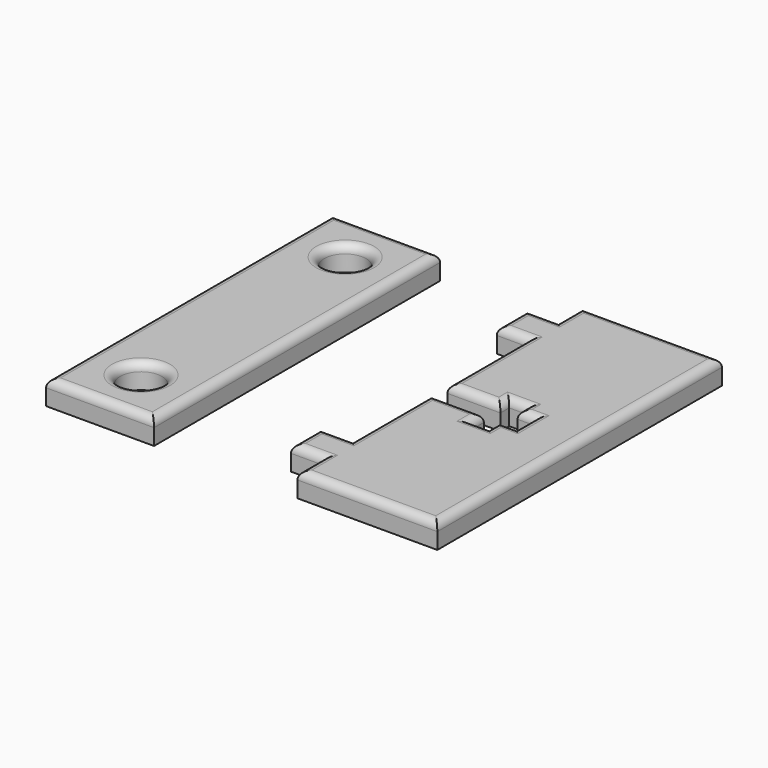
from build123d import *

# Parameters (mm, degrees)
F0_W     = 33.961078
F0_H     = 112.53205
F0_R     = 6.569287
F0_R_2   = 6.562981
F1_DEPTH = 7.62
F2_R     = 2.54
F3_R     = 2.54


with BuildPart() as f1:
    # F0 (on Top) → F1 (new body)
    with BuildSketch(Plane.XY):
        with Locations((-42.739156, 0)):
            Rectangle(F0_W, F0_H)
        with Locations((-42.739156, -40.148903)):
            Circle(F0_R, mode=Mode.SUBTRACT)
        with Locations((-42.739156, 40.148903)):
            Circle(F0_R_2, mode=Mode.SUBTRACT)
        Polygon((63.173369, 55.97822), (19.139083, 55.97822), (19.139083, 46.48063), (9.353687, 46.48063), (9.353687, 34.680594), (19.139081, 34.680594), (19.139082, 3.02196), (35.831816, 3.021961), (35.831816, 6.47563), (41.240517, 6.47563), (41.240517, 3.021961), (46.564922, 3.021961), (46.564922, -2.327136), (46.564922, -4.197873), (41.240517, -4.197873), (41.240517, -8.371057), (35.831816, -8.371057), (35.831816, -3.478359), (19.139082, -3.478359), (19.139083, -34.392789), (9.065881, -34.392789), (9.065881, -45.90502), (19.139083, -45.90502), (19.139083, -55.97822), (63.173369, -55.97822), align=None)
    extrude(amount=-F1_DEPTH)

    # F2
    f2_edges = [f1.edges().sort_by_distance(p)[0] for p in [
        (41.156226, 55.97822, 0),
        (19.139083, 51.229425, 0),
        (14.246385, 46.48063, 0),
        (9.353687, 40.580612, 0),
        (14.246384, 34.680594, 0),
        (19.139082, 18.851277, 0),
        (27.485449, 3.021961, 0),
        (35.831816, 4.748795, 0),
        (38.536167, 6.47563, 0),
        (41.240517, 4.748795, 0),
        (43.902719, 3.021961, 0),
        (46.564922, -0.587956, 0),
        (43.902719, -4.197873, 0),
        (41.240517, -6.284465, 0),
        (38.536167, -8.371057, 0),
        (35.831816, -5.924708, 0),
        (27.485449, -3.478359, 0),
        (19.139083, -18.935574, 0),
        (14.102482, -34.392789, 0),
        (9.065881, -40.148905, 0),
        (14.102482, -45.90502, 0),
        (19.139083, -50.94162, 0),
        (41.156226, -55.97822, 0),
        (63.173369, 0, 0),
    ]]
    fillet(f2_edges, radius=F2_R)

    # F3
    f3_edges = [f1.edges().sort_by_distance(p)[0] for p in [
        (-42.739156, 56.266025, 0),
        (-59.719695, 0, 0),
        (-42.739156, -56.266025, 0),
        (-25.758617, 0, 0),
        (-49.308443, -40.148903, 0),
        (-49.302137, 40.148903, 0),
    ]]
    fillet(f3_edges, radius=F3_R)


solid = f1.part
